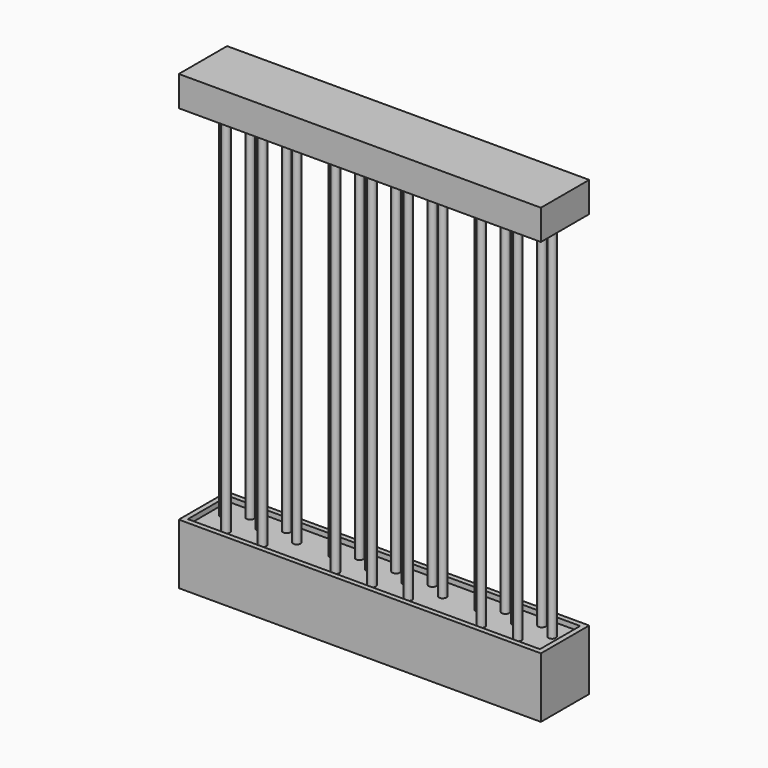
from build123d import *

# Parameters (mm, degrees)
F0_W          = 1828.8
F0_H          = 304.8
F0_W_2        = 1778
F0_H_2        = 254
F2_DEPTH      = 304.8
F4_W          = 1778
F4_H          = 254
F5_DEPTH      = 25.4
F1_R          = 19.05
F6_DEPTH      = 1828.8
F6_DEPTH_BACK = 50.8
F7_W          = 1828.8
F7_H          = 304.8
F7_R          = 19.05
F8_DEPTH      = 152.4


with BuildPart() as f2:
    # F0 (on Top) → F2 (new body)
    with BuildSketch(Plane.XY):
        Rectangle(F0_W, F0_H)
        Rectangle(F0_W_2, F0_H_2, mode=Mode.SUBTRACT)
    extrude(amount=-F2_DEPTH)


with BuildPart() as f5:
    # F4 (on offset) → F5 (new body)
    with BuildSketch(Plane.XY.offset(-25.4)):
        Rectangle(F4_W, F4_H)
    extrude(amount=-F5_DEPTH)

    # F1 (on Top) → F6 (join, two sides)
    with BuildSketch(Plane.XY) as f6_sk:
        with Locations((0, 76.2)):
            Circle(F1_R)
        with Locations((0, -76.2)):
            Circle(F1_R)
        with Locations((184.15, 76.2)):
            Circle(F1_R)
        with Locations((184.15, -76.2)):
            Circle(F1_R)
        with Locations((552.45, 76.2)):
            Circle(F1_R)
        with Locations((552.45, -76.2)):
            Circle(F1_R)
        with Locations((736.6, 76.2)):
            Circle(F1_R)
        with Locations((736.6, -76.2)):
            Circle(F1_R)
        with Locations((-184.15, 76.2)):
            Circle(F1_R)
        with Locations((-184.15, -76.2)):
            Circle(F1_R)
        with Locations((-552.45, 76.2)):
            Circle(F1_R)
        with Locations((-552.45, -76.2)):
            Circle(F1_R)
        with Locations((-736.6, 76.2)):
            Circle(F1_R)
        with Locations((-736.6, -76.2)):
            Circle(F1_R)
        with Locations((92.075, 25.4)):
            Circle(F1_R)
        with Locations((-92.075, 25.4)):
            Circle(F1_R)
        with Locations((276.225, 25.4)):
            Circle(F1_R)
        with Locations((460.375, 25.4)):
            Circle(F1_R)
        with Locations((644.525, 25.4)):
            Circle(F1_R)
        with Locations((828.675, 25.4)):
            Circle(F1_R)
        with Locations((-276.225, 25.4)):
            Circle(F1_R)
        with Locations((-460.375, 25.4)):
            Circle(F1_R)
        with Locations((-644.525, 25.4)):
            Circle(F1_R)
        with Locations((-828.675, 25.4)):
            Circle(F1_R)
    extrude(amount=F6_DEPTH)
    extrude(f6_sk.sketch, amount=-F6_DEPTH_BACK)


with BuildPart() as f8:
    # F7 (on face) → F8 (new body)
    with BuildSketch(Plane.XY.offset(1828.8)):
        Rectangle(F7_W, F7_H)
        with Locations((-828.675, 25.4)):
            Circle(F7_R, mode=Mode.SUBTRACT)
        with Locations((-828.675, 25.4)):
            Circle(F7_R)
    extrude(amount=F8_DEPTH)


solid = Compound([f2.part, f5.part, f8.part])
